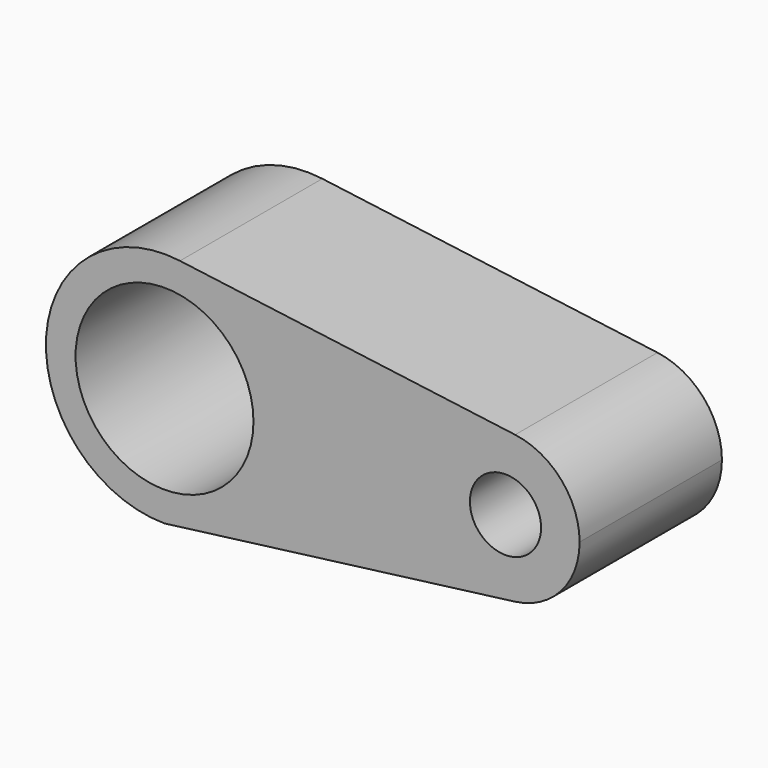
from build123d import *

# Parameters (mm, degrees)
F0_R     = 3.81
F0_R_2   = 9.525
F1_DEPTH = 19.05


with BuildPart() as f1:
    # F0 (on Front) → F1 (new body)
    with BuildSketch(Plane.XZ):
        with BuildLine():
            ThreePointArc((1.656522, 12.591503), (9.54798, 8.374132), (12.7, 0))
            ThreePointArc((12.7, 0), (10.052666, -7.76105), (3.214346, -12.286496))
            Line((3.214346, -12.286496), (37.525261, -7.872625))
            ThreePointArc((37.525261, -7.872625), (28.575008, 0.011378), (37.547826, 7.869689))
            Line((37.547826, 7.869689), (1.656522, 12.591503))
        make_face()
        with BuildLine():
            ThreePointArc((44.45, 0), (42.479987, 5.233833), (37.547826, 7.869689))
            ThreePointArc((37.547826, 7.869689), (28.575008, 0.011378), (37.525261, -7.872625))
            ThreePointArc((37.525261, -7.872625), (42.472479, -5.242381), (44.45, 0))
        make_face()
        with Locations((36.5125, 0)):
            Circle(F0_R, mode=Mode.SUBTRACT)
        with BuildLine():
            ThreePointArc((3.214346, -12.286496), (10.052666, -7.76105), (12.7, 0))
            ThreePointArc((12.7, 0), (9.54798, 8.374132), (1.656522, 12.591503))
            ThreePointArc((1.656522, 12.591503), (-12.672847, 0.830036), (0, -12.7))
            Line((0, -12.7), (3.214346, -12.286496))
        make_face()
        Circle(F0_R_2, mode=Mode.SUBTRACT)
    extrude(amount=F1_DEPTH)


solid = f1.part
